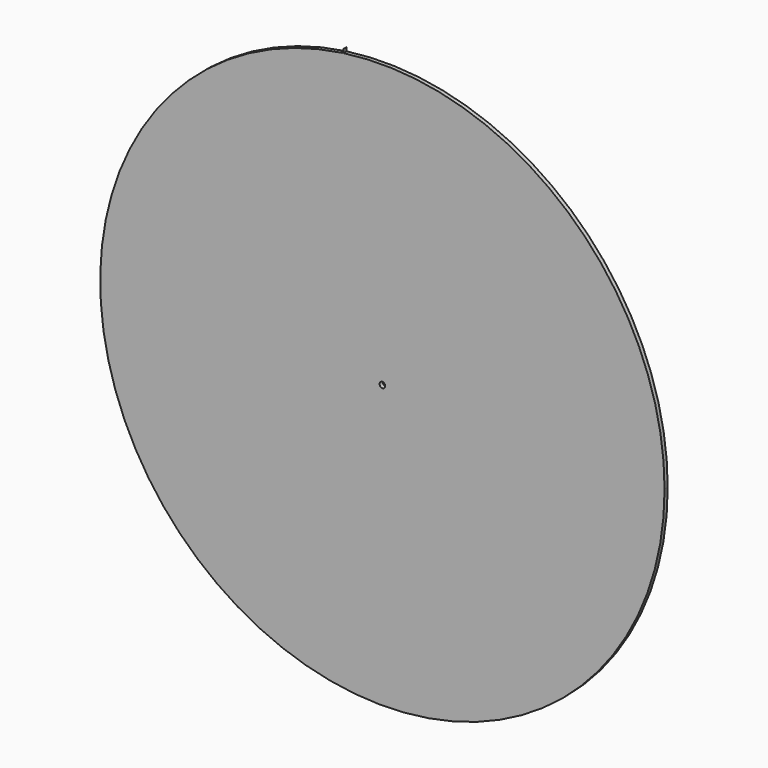
from build123d import *

# Parameters (mm, degrees)
F1_DEPTH = 13.335


with BuildPart() as f1:
    # F0 (on Front) → F1 (new body)
    with BuildSketch(Plane.XZ):
        with BuildLine():
            ThreePointArc((-134.683209, 942.92984), (-624.087531, -719.563064), (952.5, 0))
            ThreePointArc((952.5, 0), (625.285466, 718.522328), (-131.540601, 943.373373))
            ThreePointArc((-131.540601, 943.373373), (-133.11209, 943.152915), (-134.683209, 942.92984))
        make_face()
        with BuildLine():
            ThreePointArc((0, 9.525), (6.735192, 6.735192), (9.525, 0))
            ThreePointArc((9.525, 0), (-6.735192, -6.735192), (0, 9.525))
        make_face(mode=Mode.SUBTRACT)
        with BuildLine():
            ThreePointArc((-134.683209, 942.92984), (-133.11209, 943.152915), (-131.540601, 943.373373))
            Line((-131.540601, 943.373373), (-131.540601, 956.073373))
            Line((-131.540601, 956.073373), (-134.683209, 942.92984))
        make_face()
    extrude(amount=F1_DEPTH)


solid = f1.part
